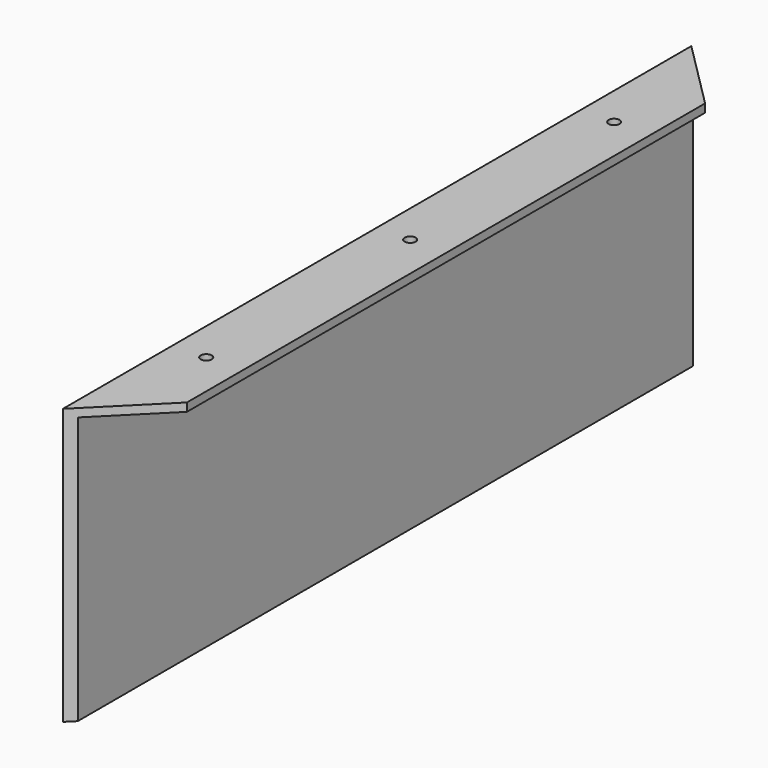
from build123d import *

# Parameters (mm, degrees)
F0_W     = 22
F0_H     = 3
F1_DEPTH = 142.5
F3_D     = 4.3
F3_DEPTH = 3
F3_TIP   = 1.2918503309
F5_D     = 4
F5_DEPTH = 3
F5_TIP   = 1.2017212381
F7_DEPTH = 100


with BuildPart() as f1:
    # F0 (on Front) → F1 (new body, symmetric)
    with BuildSketch(Plane.XZ):
        with Locations((12.5, 48.5)):
            Rectangle(F0_W, F0_H)
        Polygon((1.5, 47), (1.5, 50), (-1.5, 50), (-1.5, -50), (1.5, -50), align=None)
    extrude(amount=F1_DEPTH, both=True)

    # F3
    with Locations(Plane(origin=(-1.5, 0, 0), x_dir=(0, -1, 0), z_dir=(-1, 0, 0))):
        with Locations((-92.5, 43), (-66.5, 43), (66.5, 43), (92.5, 43)):
            Hole(F3_D / 2, depth=F3_DEPTH)
            with Locations((0, 0, -(F3_DEPTH + F3_TIP / 2))):  # 118° drill point
                Cone(0, F3_D / 2, F3_TIP, mode=Mode.SUBTRACT)

    # F5
    with Locations(Plane.XY.offset(50)):
        with Locations((10.5, 92.5), (10.5, 0), (10.5, -92.5)):
            Hole(F5_D / 2, depth=F5_DEPTH)
            with Locations((0, 0, -(F5_DEPTH + F5_TIP / 2))):  # 118° drill point
                Cone(0, F5_D / 2, F5_TIP, mode=Mode.SUBTRACT)

    # F6 (on face) → F7 (cut)
    with BuildSketch(Plane.XY.offset(50)):
        Polygon((23.5, 142.5), (-1.5, 142.5), (23.5, 117.5), align=None)
        Polygon((23.5, -117.5), (-1.5, -142.5), (23.5, -142.5), align=None)
    extrude(amount=-F7_DEPTH, mode=Mode.SUBTRACT)


solid = f1.part
